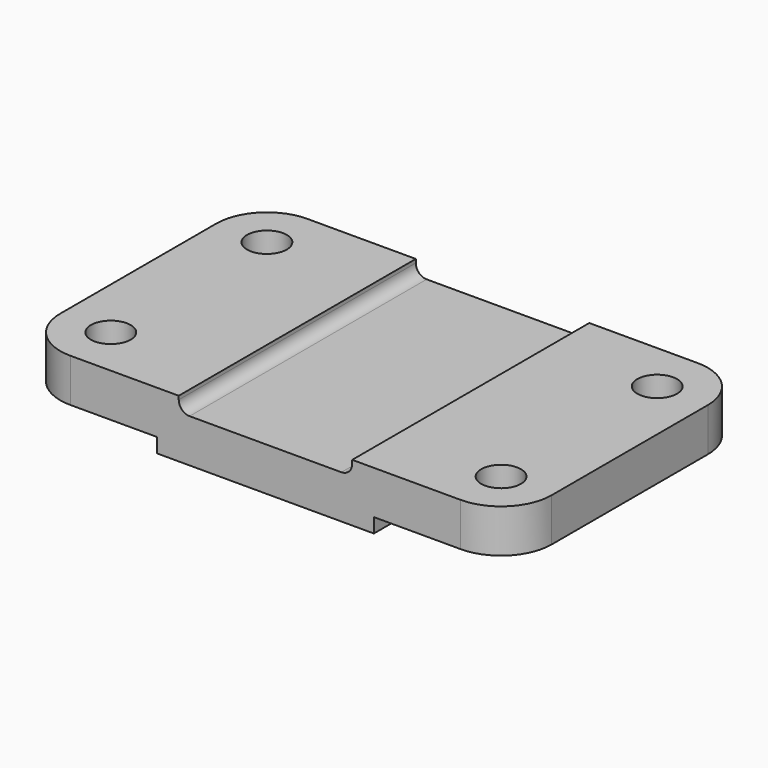
from build123d import *

# Parameters (mm, degrees)
F1_DEPTH = 82
F2_R     = 14
F3_R     = 5.5
F4_DEPTH = 25


with BuildPart() as f1:
    # F0 (on Front) → F1 (new body)
    with BuildSketch(Plane.XZ):
        with BuildLine():
            Line((44, 0), (0, 0))
            Line((0, 0), (0, -12))
            Line((0, -12), (38, -12))
            Line((38, -12), (38, -16))
            Line((38, -16), (98, -16))
            Line((98, -16), (98, -12))
            Line((98, -12), (136, -12))
            Line((136, -12), (136, 0))
            Line((136, 0), (92, 0))
            Line((92, 0), (92, -1))
            ThreePointArc((92, -1), (91.12132, -3.12132), (89, -4))
            Line((89, -4), (47, -4))
            ThreePointArc((47, -4), (44.87868, -3.12132), (44, -1))
            Line((44, -1), (44, 0))
        make_face()
    extrude(amount=-F1_DEPTH)

    # F2
    f2_edges = [f1.edges().sort_by_distance(p)[0] for p in [
        (0, 82, -6),
        (0, 0, -6),
        (136, 0, -6),
        (136, 82, -6),
    ]]
    fillet(f2_edges, radius=F2_R)

    # F3 (on face) → F4 (cut)
    with BuildSketch(Plane.XY):
        with Locations((14, 68)):
            Circle(F3_R)
        with Locations((14, 14)):
            Circle(F3_R)
        with Locations((122, 14)):
            Circle(F3_R)
        with Locations((122, 68)):
            Circle(F3_R)
    extrude(amount=-F4_DEPTH, mode=Mode.SUBTRACT)


solid = f1.part
